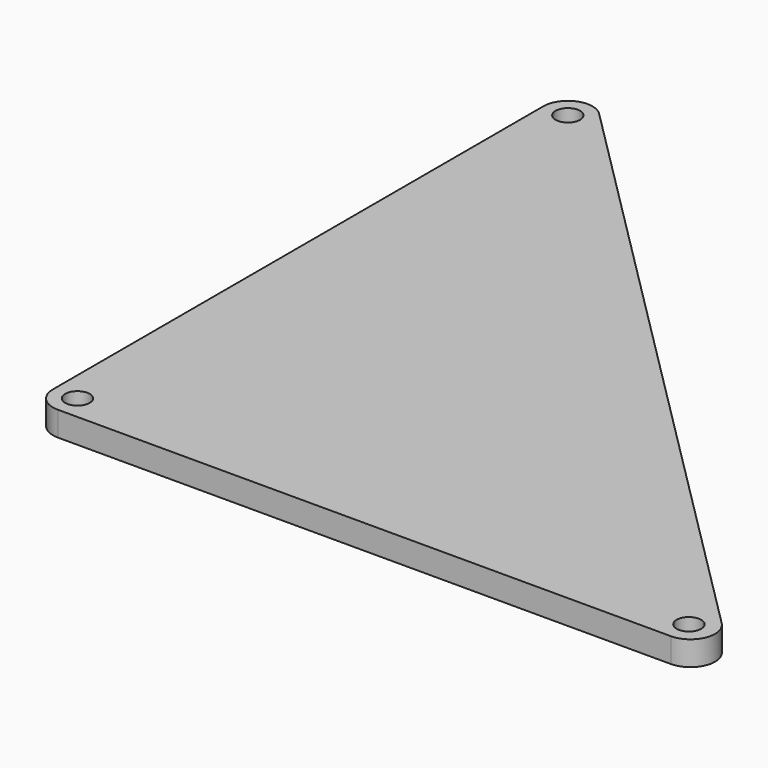
from build123d import *

# Parameters (mm, degrees)
SKETCH_R  = 1
PAD_DEPTH = 2


with BuildPart() as part:
    # Sketch → Pad (new body)
    with BuildSketch(Plane.XY):
        with BuildLine():
            Line((-23.824514, 56.986114), (-23.824514, 6.986114))
            ThreePointArc((-23.824514, 6.986114), (-23.238728, 5.5719), (-21.824514, 4.986114))
            Line((-21.824514, 4.986114), (28.175486, 4.986114))
            ThreePointArc((28.175486, 4.986114), (30.023245, 6.220747), (29.5897, 8.400328))
            Line((29.5897, 8.400328), (-20.4103, 58.400328))
            ThreePointArc((-20.4103, 58.400328), (-22.589881, 58.833873), (-23.824514, 56.986114))
        make_face()
        with Locations((-21.824514, 56.98069)):
            Circle(SKETCH_R, mode=Mode.SUBTRACT)
        with Locations((-21.824514, 6.986114)):
            Circle(SKETCH_R, mode=Mode.SUBTRACT)
        with Locations((28.046791, 6.986114)):
            Circle(SKETCH_R, mode=Mode.SUBTRACT)
    extrude(amount=PAD_DEPTH)


solid = part.part
